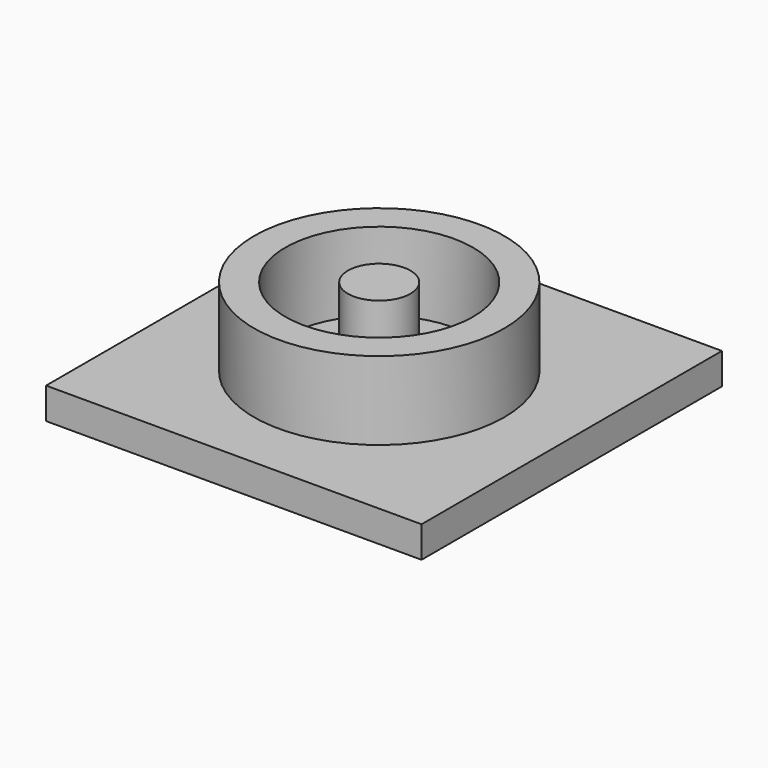
from build123d import *

# Parameters (mm, degrees)
SKETCH007_R   = 0.8
SKETCH007_R_2 = 0.6
PAD005_DEPTH  = 0.7
SKETCH008_R   = 0.2
PAD006_DEPTH  = 0.7
SKETCH009_W   = 2.4
SKETCH009_H   = 2.4
PAD007_DEPTH  = 0.2


with BuildPart() as pad005:
    # Sketch007 → Pad005 (new body)
    with BuildSketch(Plane.XY):
        with Locations((-19.6, -6.4)):
            Circle(SKETCH007_R)
        with Locations((-19.6, -6.4)):
            Circle(SKETCH007_R_2, mode=Mode.SUBTRACT)
    extrude(amount=PAD005_DEPTH)


with BuildPart() as pad006:
    # Sketch008 → Pad006 (new body)
    with BuildSketch(Plane.XY):
        with Locations((-19.6, -6.4)):
            Circle(SKETCH008_R)
    extrude(amount=PAD006_DEPTH)


with BuildPart() as fusion003:
    # Sketch009 → Pad007 (new body)
    with BuildSketch(Plane.XY):
        with Locations((-19.6, -6.361635)):
            Rectangle(SKETCH009_W, SKETCH009_H)
    extrude(amount=PAD007_DEPTH)

    # Fusion003: union Pad005, Pad006
    add(pad005.part)
    add(pad006.part)


with BuildPart() as fusion003_1:
    # Fusion003 placement: moved
    add(fusion003.part.moved(Location((12.0779, 0.773174, 1))))


solid = fusion003_1.part
